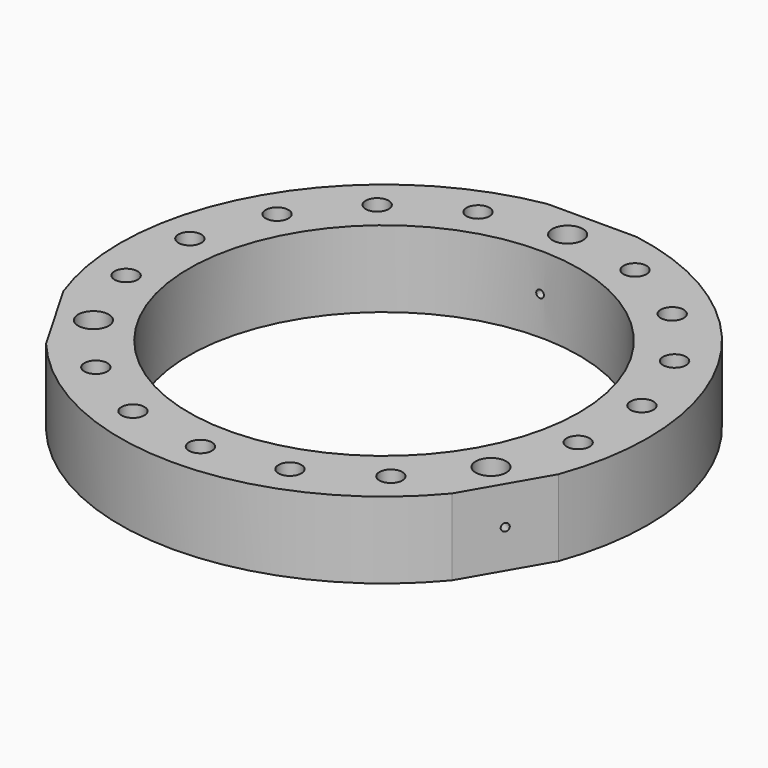
from build123d import *

# Parameters (mm, degrees)
F0_R     = 1.5
F0_R_2   = 2
F0_R_3   = 25.5
F1_DEPTH = 10
F2_R     = 0.5
F3_DEPTH = 15
F4_R     = 0.5
F5_DEPTH = 15
F6_R     = 0.5
F7_DEPTH = 15


with BuildPart() as f1:
    # F0 (on Top) → F1 (new body)
    with BuildSketch(Plane.XY):
        with BuildLine():
            Line((-32.371039, -11.931716), (-26.518689, -22.068284))
            ThreePointArc((-26.518689, -22.068284), (0, -34.5), (26.518689, -22.068284))
            Line((26.518689, -22.068284), (32.371039, -11.931716))
            ThreePointArc((32.371039, -11.931716), (29.877876, 17.25), (5.85235, 34))
            Line((5.85235, 34), (-5.85235, 34))
            ThreePointArc((-5.85235, 34), (-29.877876, 17.25), (-32.371039, -11.931716))
        make_face()
        with Locations((-19.283628, -22.981333)):
            Circle(F0_R, mode=Mode.SUBTRACT)
        with Locations((-10.260604, -28.190779)):
            Circle(F0_R, mode=Mode.SUBTRACT)
        with Locations((-25.980762, -15)):
            Circle(F0_R_2, mode=Mode.SUBTRACT)
        with Locations((-29.544233, -5.209445)):
            Circle(F0_R, mode=Mode.SUBTRACT)
        with Locations((0, -30)):
            Circle(F0_R, mode=Mode.SUBTRACT)
        with Locations((10.260604, -28.190779)):
            Circle(F0_R, mode=Mode.SUBTRACT)
        with Locations((19.283628, -22.981333)):
            Circle(F0_R, mode=Mode.SUBTRACT)
        with Locations((25.980762, -15)):
            Circle(F0_R_2, mode=Mode.SUBTRACT)
        with Locations((29.544233, -5.209445)):
            Circle(F0_R, mode=Mode.SUBTRACT)
        with Locations((-29.544233, 5.209445)):
            Circle(F0_R, mode=Mode.SUBTRACT)
        with Locations((-25.980762, 15)):
            Circle(F0_R, mode=Mode.SUBTRACT)
        with Locations((-19.283628, 22.981333)):
            Circle(F0_R, mode=Mode.SUBTRACT)
        with Locations((-10.260604, 28.190779)):
            Circle(F0_R, mode=Mode.SUBTRACT)
        Circle(F0_R_3, mode=Mode.SUBTRACT)
        with Locations((29.544233, 5.209445)):
            Circle(F0_R, mode=Mode.SUBTRACT)
        with Locations((25.980762, 15)):
            Circle(F0_R, mode=Mode.SUBTRACT)
        with Locations((0, 30)):
            Circle(F0_R_2, mode=Mode.SUBTRACT)
        with Locations((10.260604, 28.190779)):
            Circle(F0_R, mode=Mode.SUBTRACT)
        with Locations((19.283628, 22.981333)):
            Circle(F0_R, mode=Mode.SUBTRACT)
    extrude(amount=F1_DEPTH)

    # F2 (on face) → F3 (cut)
    with BuildSketch(Plane(origin=(29.444864, -17, 0), x_dir=(0.5, 0.866025, 0), z_dir=(0.866025, -0.5, 0))):
        with Locations((0, 5)):
            Circle(F2_R)
    extrude(amount=-F3_DEPTH, mode=Mode.SUBTRACT)

    # F4 (on face) → F5 (cut)
    with BuildSketch(Plane(origin=(0, 34, 0), x_dir=(-1, 0, 0), z_dir=(0, 1, 0))):
        with Locations((0, 5)):
            Circle(F4_R)
    extrude(amount=-F5_DEPTH, mode=Mode.SUBTRACT)

    # F6 (on face) → F7 (cut)
    with BuildSketch(Plane(origin=(-29.444864, -17, 0), x_dir=(0.5, -0.866025, 0), z_dir=(-0.866025, -0.5, 0))):
        with Locations((0, 5)):
            Circle(F6_R)
    extrude(amount=-F7_DEPTH, mode=Mode.SUBTRACT)


solid = f1.part
